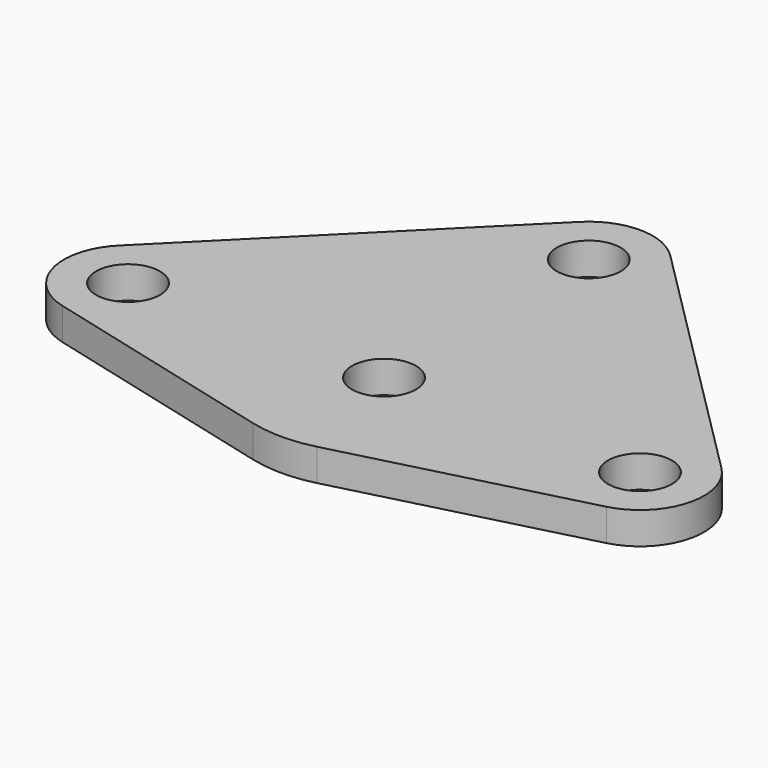
from build123d import *

# Parameters (mm, degrees)
SKETCH_R      = 10
EXTRUDE_DEPTH = 10


with BuildPart() as part:
    # Sketch → Extrude (new body)
    with BuildSketch(Plane.XY):
        with BuildLine():
            ThreePointArc((-10, -38.729833), (0, -40), (10, -38.729833))
            Line((85, -19.364917), (10, -38.729833))
            ThreePointArc((85, -19.364917), (99.294714, -5.264411), (94.142136, 14.142136))
            Line((14.142136, 94.142136), (94.142136, 14.142136))
            ThreePointArc((14.142136, 94.142136), (0, 100), (-14.142136, 94.142136))
            Line((-94.142136, 14.142136), (-14.142136, 94.142136))
            ThreePointArc((-94.142136, 14.142136), (-99.294714, -5.264411), (-85, -19.364917))
            Line((-10, -38.729833), (-85, -19.364917))
        make_face()
        Circle(SKETCH_R, mode=Mode.SUBTRACT)
        with Locations((-80, 0)):
            Circle(SKETCH_R, mode=Mode.SUBTRACT)
        with Locations((80, 0)):
            Circle(SKETCH_R, mode=Mode.SUBTRACT)
        with Locations((0, 80)):
            Circle(SKETCH_R, mode=Mode.SUBTRACT)
    extrude(amount=EXTRUDE_DEPTH)


solid = part.part
